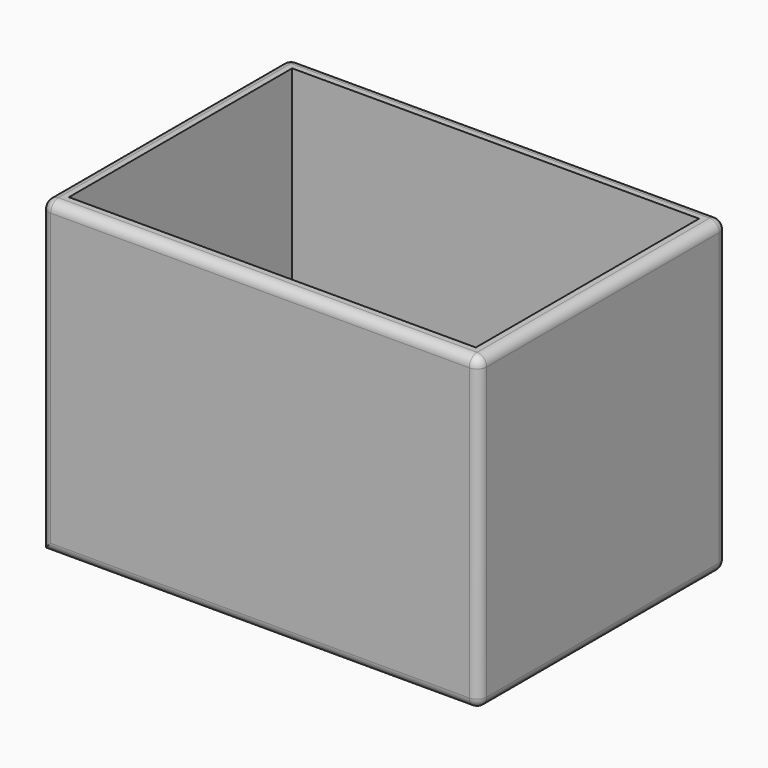
from build123d import *

# Parameters (mm, degrees)
F0_W     = 113
F0_H     = 80
F1_DEPTH = 80
F2_T     = -4
F3_R     = 2.5


with BuildPart() as f1:
    # F0 (on Front) → F1 (new body)
    with BuildSketch(Plane.XZ):
        with Locations((-56.5, 40)):
            Rectangle(F0_W, F0_H)
    extrude(amount=F1_DEPTH)

    # F2
    f2_openings = [f1.faces().sort_by_distance(p)[0] for p in [
        (-56.5, -40, 80),
    ]]
    offset(amount=F2_T, openings=f2_openings)

    # F3
    f3_edges = [f1.edges().sort_by_distance(p)[0] for p in [
        (0, -80, 40),
        (0, 0, 40),
        (0, -40, 80),
        (-56.5, -80, 80),
        (-56.5, 0, 80),
        (-56.5, -80, 0),
        (0, -40, 0),
        (-56.5, 0, 0),
        (-113, -80, 40),
        (-113, 0, 40),
        (-113, -40, 80),
    ]]
    fillet(f3_edges, radius=F3_R)


solid = f1.part
